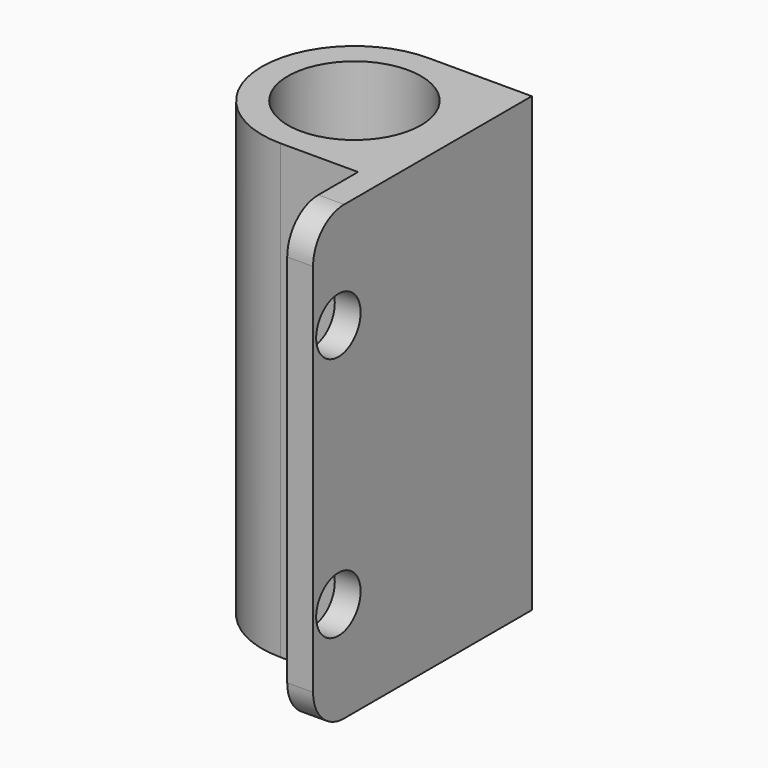
from build123d import *

# Parameters (mm, degrees)
F0_R     = 5.15
F1_DEPTH = 35
F3_D     = 4.3
F4_R     = 3
F5_R     = 1.5


with BuildPart() as f1:
    # F0 (on Top) → F1 (new body)
    with BuildSketch(Plane.XY):
        with BuildLine():
            ThreePointArc((0, -7.15), (5.055813, -5.055813), (7.15, 0))
            ThreePointArc((7.15, 0), (5.055813, 5.055813), (0, 7.15))
            ThreePointArc((0, 7.15), (-7.15, 0), (0, -7.15))
        make_face()
        Circle(F0_R, mode=Mode.SUBTRACT)
        with BuildLine():
            Line((8, 0), (7.15, 0))
            ThreePointArc((7.15, 0), (5.055813, -5.055813), (0, -7.15))
            Line((0, -7.15), (6, -7.15))
            Line((6, -7.15), (6, -14))
            Line((6, -14), (8, -14))
            Line((8, -14), (8, 0))
        make_face()
        with BuildLine():
            ThreePointArc((0, 7.15), (5.055813, 5.055813), (7.15, 0))
            Line((7.15, 0), (8, 0))
            Line((8, 0), (8, 7.15))
            Line((8, 7.15), (0, 7.15))
        make_face()
    extrude(amount=F1_DEPTH)

    # F3 (through all)
    with Locations(Plane(origin=(6, 0, 0), x_dir=(0, -1, 0), z_dir=(-1, 0, 0))):
        with Locations((11.55, 8), (11.55, 27)):
            Hole(F3_D / 2)

    # F4
    f4_edges = [f1.edges().sort_by_distance(p)[0] for p in [
        (7, -14, 0),
        (7, -14, 35),
    ]]
    fillet(f4_edges, radius=F4_R)

    # F5
    f5_edges = [f1.edges().sort_by_distance(p)[0] for p in [
        (-5.15, 0, 0),
    ]]
    fillet(f5_edges, radius=F5_R)


solid = f1.part
